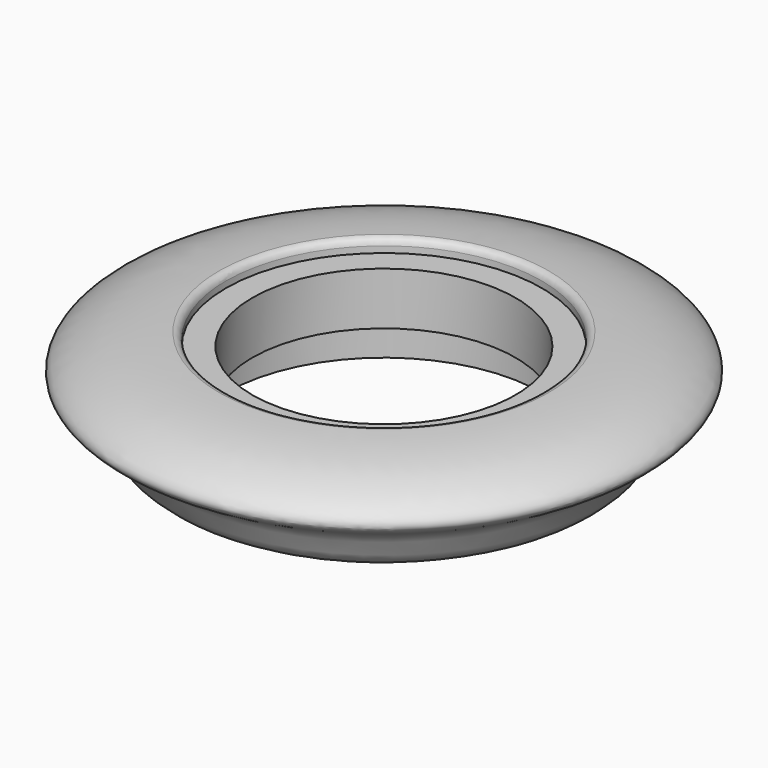
from build123d import *

# Parameters (mm, degrees)
F2_R = 3.175


with BuildPart() as f1:
    # F0 (on Front) → F1 (revolve)
    with BuildSketch(Plane.XZ):
        with BuildLine():
            Line((0.3350489762, -11.0792201133), (13.0350489762, -11.0792201133))
            Line((13.0350489762, -11.0792201133), (13.0350489762, 14.3207798867))
            Line((13.0350489762, 14.3207798867), (0.3350489762, 14.3207798867))
            Line((0.3350489762, 14.3207798867), (0.3350489762, 20.6707798867))
            add(Edge.make_bspline(
                [(0.3350489762, -30.1292201133), (-8.2096151535, -30.06299815), (-15.8109841412, -30.4267647962), (-28.572515602, -22.1018651773), (-29.9519049253, -7.103743724), (-59.4036744544, 1.901060293), (-34.7025187399, 18.6182179884), (-11.5561503496, 20.2984979156), (0.3350489762, 20.6707798867)],
                knots=[0, 0, 0, 0, 0.1567613221, 0.2896699988, 0.4324502723, 0.6058333187, 0.7678080364, 1, 1, 1, 1], degree=3))
            Line((0.3350489762, -30.1292201133), (0.3350489762, -11.0792201133))
        make_face()
    revolve(axis=Axis((76.5350489762, 0, -0.9242277592), (0, 0, -1)))

    # F2
    f2_edges = [f1.edges().sort_by_distance(p)[0] for p in [
        (152.735049, 0, 20.67078),
    ]]
    fillet(f2_edges, radius=F2_R)


solid = f1.part
